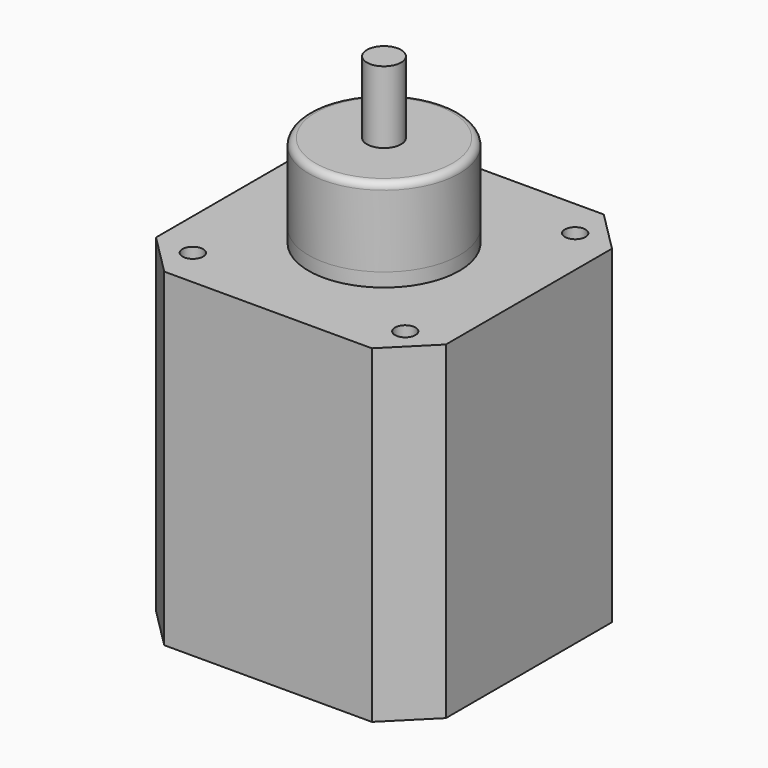
from build123d import *

# Parameters (mm, degrees)
F0_W      = 42.3
F0_H      = 42.3
F1_DEPTH  = 48
F2_R      = 11
F3_DEPTH  = 2
F4_R      = 2.5
F5_DEPTH  = 22
F6_R      = 1.5
F7_DEPTH  = 48
F8_SIZE   = 6
F9_R      = 11
F9_R_2    = 2.5
F10_DEPTH = 11.5
F11_R     = 1


with BuildPart() as f1:
    # F0 (on Top) → F1 (new body)
    with BuildSketch(Plane.XY):
        Rectangle(F0_W, F0_H)
    extrude(amount=F1_DEPTH)

    # F2 (on face) → F3 (join)
    with BuildSketch(Plane.XY.offset(48)):
        Circle(F2_R)
    extrude(amount=F3_DEPTH)

    # F4 (on face) → F5 (join)
    with BuildSketch(Plane.XY.offset(50)):
        Circle(F4_R)
    extrude(amount=F5_DEPTH)

    # F6 (on face) → F7 (cut)
    with BuildSketch(Plane.XY.offset(48)):
        with Locations((15.5, -15.5)):
            Circle(F6_R)
        with Locations((15.5, 15.5)):
            Circle(F6_R)
        with Locations((-15.5, -15.5)):
            Circle(F6_R)
        with Locations((-15.5, 15.5)):
            Circle(F6_R)
    extrude(amount=-F7_DEPTH, mode=Mode.SUBTRACT)

    # F8
    f8_edges = [f1.edges().sort_by_distance(p)[0] for p in [
        (21.15, -21.15, 24),
        (-21.15, -21.15, 24),
        (21.15, 21.15, 24),
        (-21.15, 21.15, 24),
    ]]
    chamfer(f8_edges, length=F8_SIZE)


with BuildPart() as f10:
    # F9 (on face) → F10 (new body)
    with BuildSketch(Plane.XY.offset(50)):
        Circle(F9_R)
        Circle(F9_R_2, mode=Mode.SUBTRACT)
    extrude(amount=F10_DEPTH)

    # F11
    f11_edges = [f10.edges().sort_by_distance(p)[0] for p in [
        (-11, 0, 61.5),
    ]]
    fillet(f11_edges, radius=F11_R)


solid = Compound([f1.part, f10.part])
